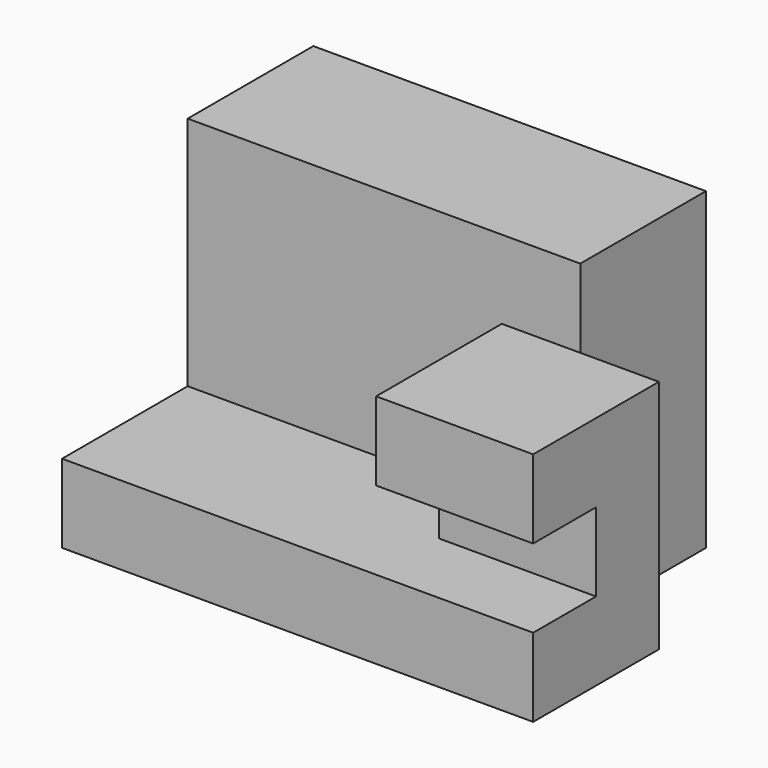
from build123d import *

# Parameters (mm, degrees)
F0_W     = 50
F0_H     = 20
F1_DEPTH = 40
F2_W     = 60
F2_H     = 20
F3_DEPTH = 10
F4_W     = 20
F4_H     = 20
F5_DEPTH = 20
F6_W     = 10
F6_H     = 10
F7_DEPTH = 25


with BuildPart() as f1:
    # F0 (on Top) → F1 (new body)
    with BuildSketch(Plane.XY):
        with Locations((25, 30)):
            Rectangle(F0_W, F0_H)
    extrude(amount=F1_DEPTH)

    # F2 (on Top) → F3 (join)
    with BuildSketch(Plane.XY):
        with Locations((30, 10)):
            Rectangle(F2_W, F2_H)
    extrude(amount=F3_DEPTH)

    # F4 (on face) → F5 (join)
    with BuildSketch(Plane.XY.offset(10)):
        with Locations((50, 10)):
            Rectangle(F4_W, F4_H)
    extrude(amount=F5_DEPTH)

    # F6 (on face) → F7 (cut)
    with BuildSketch(Plane(origin=(40, 0, 0), x_dir=(0, -1, 0), z_dir=(-1, 0, 0))):
        with Locations((-5, 15)):
            Rectangle(F6_W, F6_H)
    extrude(amount=-F7_DEPTH, mode=Mode.SUBTRACT)


solid = f1.part
